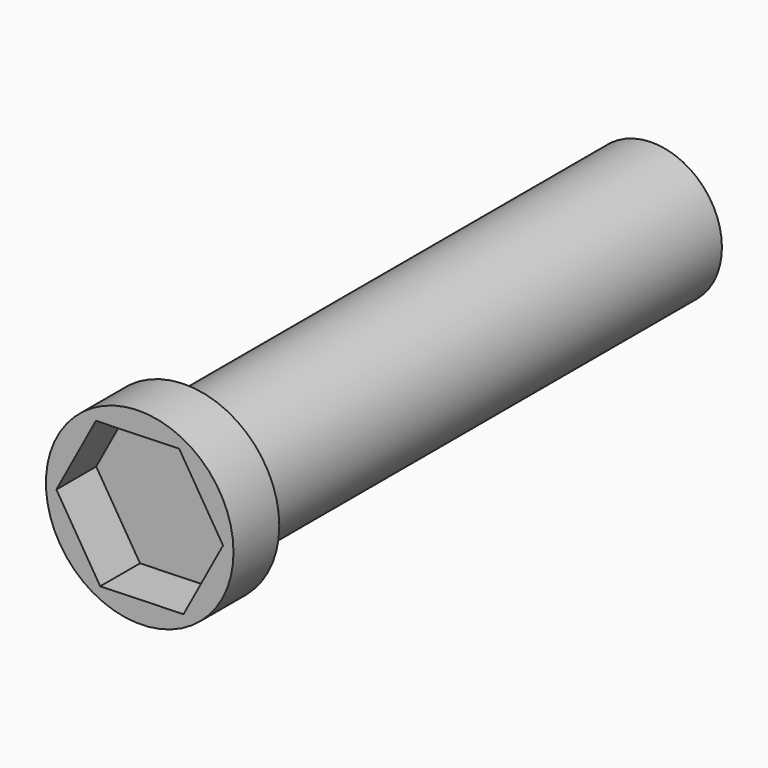
from build123d import *

# Parameters (mm, degrees)
F0_R     = 7.112
F1_DEPTH = 59.563
F2_R     = 9.5758
F2_R_2   = 7.112
F3_DEPTH = 5.842
F5_DEPTH = 5.08


with BuildPart() as f1:
    # F0 (on Front) → F1 (new body)
    with BuildSketch(Plane.XZ):
        Circle(F0_R)
    extrude(amount=F1_DEPTH)

    # F2 (on face) → F3 (join)
    with BuildSketch(Plane.XZ.offset(59.563)):
        Circle(F2_R)
        Circle(F2_R_2, mode=Mode.SUBTRACT)
        Circle(F2_R_2)
    extrude(amount=F3_DEPTH)

    # F4 (on face) → F5 (cut)
    with BuildSketch(Plane.XZ.offset(65.405)):
        Polygon((8.5051758644, 0.2550774705), (4.0316843628, 7.4932370975), (-4.4734915016, 7.238159627), (-8.5051758644, -0.2550774705), (-4.0316843628, -7.4932370975), (4.4734915016, -7.238159627), align=None)
    extrude(amount=-F5_DEPTH, mode=Mode.SUBTRACT)


solid = f1.part
